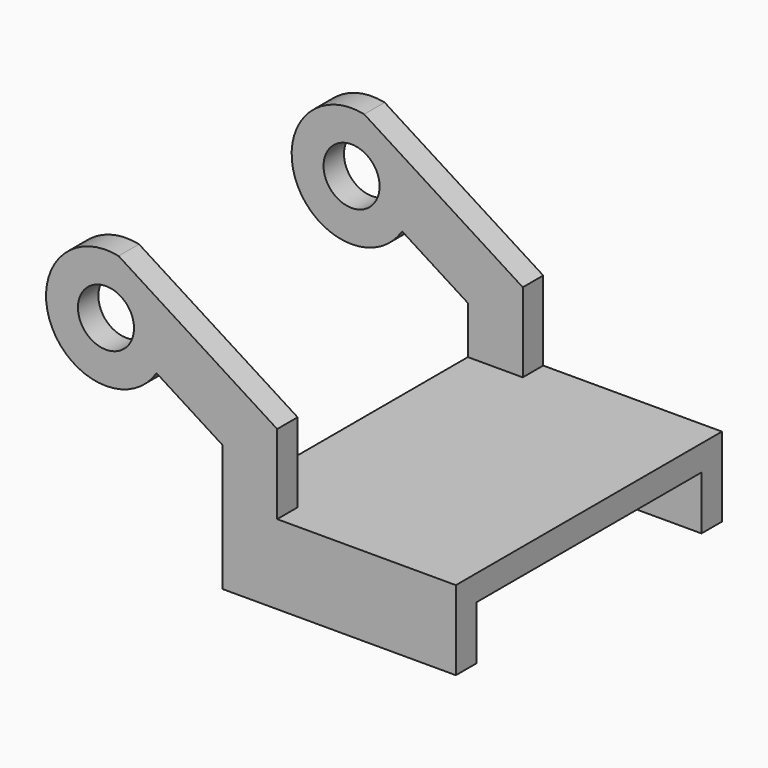
from build123d import *

# Parameters (mm, degrees)
F0_R     = 3.18
F1_DEPTH = 2.9
F3_DEPTH = 18.87


with BuildPart() as f1:
    # F0 (on Front) → F1 (new body)
    with BuildSketch(Plane.XZ):
        with BuildLine():
            Line((0, 0), (26.51, 0))
            Line((26.51, 0), (26.51, 9))
            Line((26.51, 9), (6.23, 9))
            Line((6.23, 9), (6.23, 18))
            Line((6.23, 18), (-11.764806, 29.434014))
            ThreePointArc((-11.764806, 29.434014), (-19.474339, 20.164339), (-7.461201, 19.140478))
            Line((-7.461201, 19.140478), (0, 14.399584))
            Line((0, 14.399584), (0, 0))
        make_face()
        with Locations((-13.200586, 22.78732)):
            Circle(F0_R, mode=Mode.SUBTRACT)
    extrude(amount=F1_DEPTH)

    # F2 (on face) → F3 (join)
    with BuildSketch(Plane.XZ.offset(2.9)):
        Polygon((26.51, 9), (6.23, 9), (0, 9), (0, 6.1), (26.51, 6.1), align=None)
    extrude(amount=-F3_DEPTH)

    # F5: F1 across plane


with BuildPart() as f1_1:
    add(f1.part)
    add(f1.part.mirror(Plane.XZ.offset(-15.97)))


solid = f1_1.part
